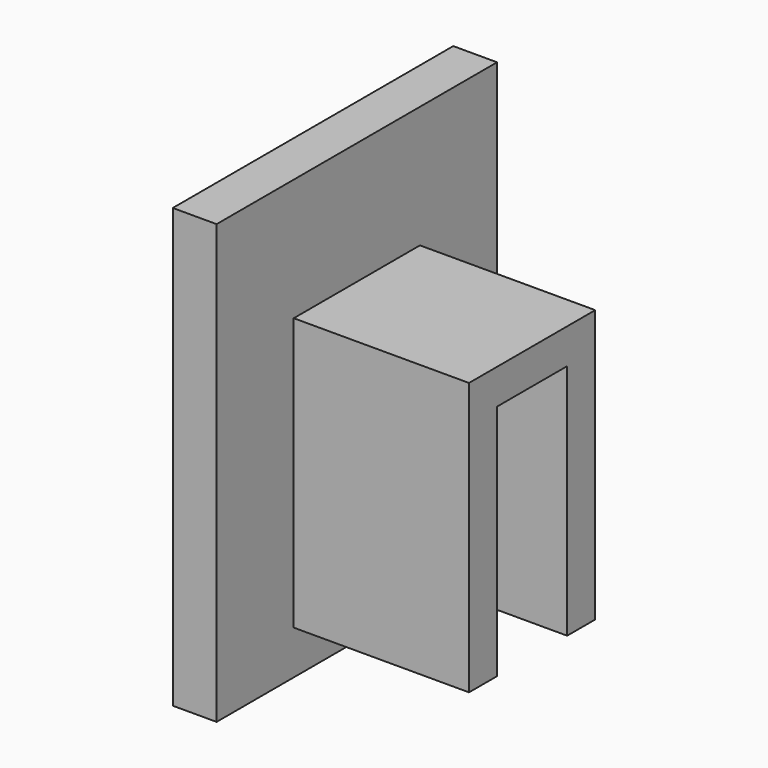
from build123d import *

# Parameters (mm, degrees)
F0_W     = 40
F0_H     = 50
F1_DEPTH = 5
F3_DEPTH = 20


with BuildPart() as f1:
    # F0 (on Right) → F1 (new body)
    with BuildSketch(Plane.YZ):
        with Locations((20, 25)):
            Rectangle(F0_W, F0_H)
    extrude(amount=F1_DEPTH)

    # F2 (on face) → F3 (join)
    with BuildSketch(Plane.YZ.offset(5)):
        Polygon((11, 36.08), (11, 5), (15, 5), (15, 32.08), (25, 32.08), (25, 5), (29, 5), (29, 36.08), align=None)
    extrude(amount=F3_DEPTH)


solid = f1.part
